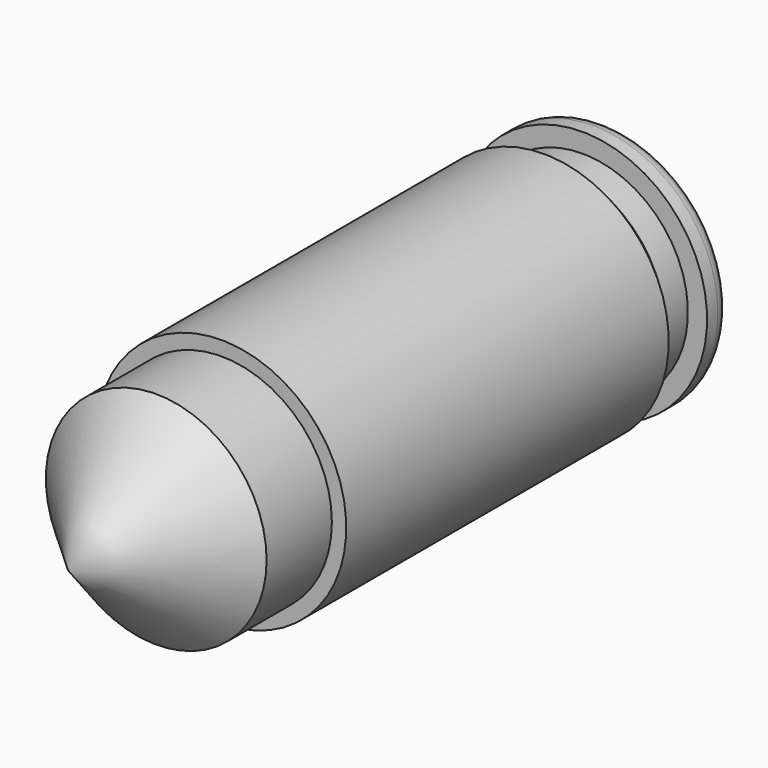
from build123d import *

# Parameters (mm, degrees)
F0_R     = 5.75
F1_DEPTH = 10
F2_SIZE  = 5.75
F3_R     = 6.5
F4_DEPTH = 22
F5_SIZE  = 1
F6_R     = 5.5
F7_DEPTH = 1.5
F8_R     = 6.5
F9_DEPTH = 1.5
F10_R    = 0.8


with BuildPart() as f1:
    # F0 (on Front) → F1 (new body)
    with BuildSketch(Plane.XZ):
        Circle(F0_R)
    extrude(amount=F1_DEPTH)

    # F2
    f2_edges = [f1.edges().sort_by_distance(p)[0] for p in [
        (-5.75, -10, 0),
    ]]
    chamfer(f2_edges, length=F2_SIZE)

    # F3 (on face) → F4 (join)
    with BuildSketch(Plane(origin=(0, 0, 0), x_dir=(-1, 0, 0), z_dir=(0, 1, 0))):
        Circle(F3_R)
    extrude(amount=F4_DEPTH)

    # F5
    f5_edges = [f1.edges().sort_by_distance(p)[0] for p in [
        (6.5, 22, 0),
    ]]
    chamfer(f5_edges, length=F5_SIZE)

    # F6 (on face) → F7 (join)
    with BuildSketch(Plane(origin=(0, 22, 0), x_dir=(-1, 0, 0), z_dir=(0, 1, 0))):
        Circle(F6_R)
    extrude(amount=F7_DEPTH)

    # F8 (on face) → F9 (join)
    with BuildSketch(Plane(origin=(0, 23.5, 0), x_dir=(-1, 0, 0), z_dir=(0, 1, 0))):
        Circle(F8_R)
    extrude(amount=F9_DEPTH)

    # F10
    f10_edges = [f1.edges().sort_by_distance(p)[0] for p in [
        (6.5, 25, 0),
    ]]
    fillet(f10_edges, radius=F10_R)


solid = f1.part
